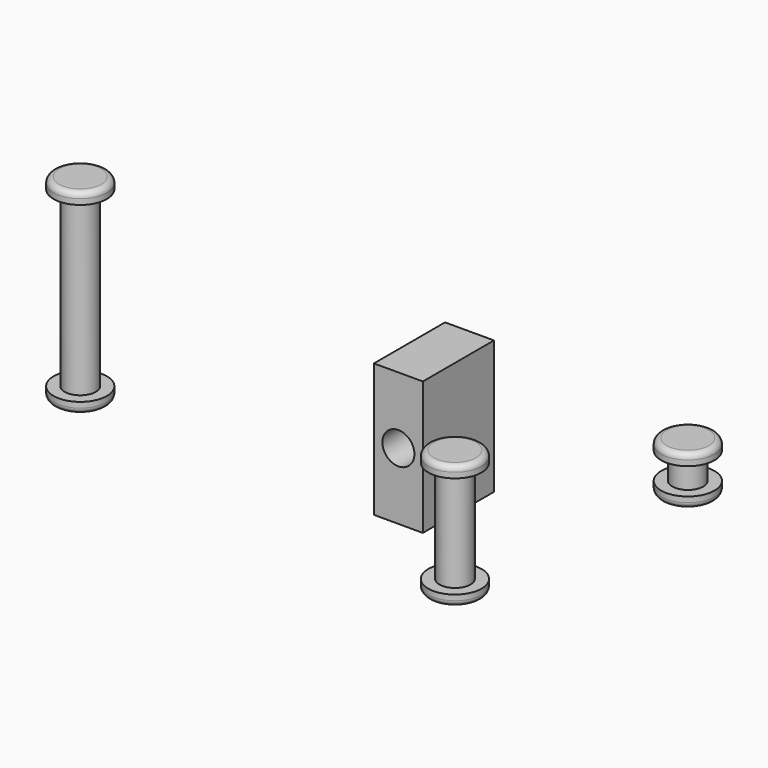
from build123d import *

# Parameters (mm, degrees)
F0_W      = 11.00328
F0_H      = 29.99994
F1_DEPTH  = 19.99996
F2_R      = 3.60045
F3_DEPTH  = 25.4
F4_R      = 3.50012
F5_DEPTH  = 38.99916
F6_R      = 5.99948
F7_DEPTH  = 2.49936
F8_R      = 5.99948
F9_DEPTH  = 2.49936
F10_R     = 1.27
F11_R     = 3.50012
F12_DEPTH = 22.9997
F13_R     = 5.99948
F14_DEPTH = 2.49936
F15_R     = 5.99948
F16_DEPTH = 2.49936
F17_R     = 1.27
F18_R     = 3.50012
F19_DEPTH = 5.99948
F20_R     = 5.99948
F21_DEPTH = 2.49936
F22_R     = 5.99948
F23_DEPTH = 2.49936
F24_R     = 1.27


with BuildPart() as f1:
    # F0 (on Front) → F1 (new body)
    with BuildSketch(Plane.XZ):
        Rectangle(F0_W, F0_H)
    extrude(amount=-F1_DEPTH)

    # F2 (on face) → F3 (cut)
    with BuildSketch(Plane.XZ):
        Circle(F2_R)
    extrude(amount=-F3_DEPTH, mode=Mode.SUBTRACT)


with BuildPart() as f5:
    # F4 (on Top) → F5 (new body)
    with BuildSketch(Plane.XY):
        with Locations((-58.39036, -16.481152)):
            Circle(F4_R)
    extrude(amount=F5_DEPTH)

    # F6 (on face) → F7 (join)
    with BuildSketch(Plane.XY.offset(38.99916)):
        with Locations((-58.39036, -16.481152)):
            Circle(F6_R)
    extrude(amount=F7_DEPTH)

    # F8 (on face) → F9 (join)
    with BuildSketch(Plane(origin=(0, 0, 0), x_dir=(1, 0, 0), z_dir=(0, 0, -1))):
        with Locations((-58.39036, 16.481152)):
            Circle(F8_R)
    extrude(amount=F9_DEPTH)

    # F10
    f10_edges = [f5.edges().sort_by_distance(p)[0] for p in [
        (-64.38984, -16.481152, -2.49936),
        (-64.38984, -16.481152, 41.49852),
    ]]
    fillet(f10_edges, radius=F10_R)


with BuildPart() as f12:
    # F11 (on Top) → F12 (new body)
    with BuildSketch(Plane.XY):
        with Locations((38.805041, -32.601513)):
            Circle(F11_R)
    extrude(amount=F12_DEPTH)

    # F13 (on face) → F14 (join)
    with BuildSketch(Plane.XY.offset(22.9997)):
        with Locations((38.805041, -32.601513)):
            Circle(F13_R)
    extrude(amount=F14_DEPTH)

    # F15 (on face) → F16 (join)
    with BuildSketch(Plane(origin=(0, 0, 0), x_dir=(1, 0, 0), z_dir=(0, 0, -1))):
        with Locations((38.805041, 32.601513)):
            Circle(F15_R)
    extrude(amount=F16_DEPTH)

    # F17
    f17_edges = [f12.edges().sort_by_distance(p)[0] for p in [
        (32.805561, -32.601513, -2.49936),
        (32.805561, -32.601513, 25.49906),
    ]]
    fillet(f17_edges, radius=F17_R)


with BuildPart() as f19:
    # F18 (on Top) → F19 (new body)
    with BuildSketch(Plane.XY):
        with Locations((47.449935, 22.08305)):
            Circle(F18_R)
    extrude(amount=F19_DEPTH)

    # F20 (on face) → F21 (join)
    with BuildSketch(Plane(origin=(0, 0, 0), x_dir=(1, 0, 0), z_dir=(0, 0, -1))):
        with Locations((47.449935, -22.08305)):
            Circle(F20_R)
    extrude(amount=F21_DEPTH)

    # F22 (on face) → F23 (join)
    with BuildSketch(Plane.XY.offset(5.99948)):
        with Locations((47.449935, 22.08305)):
            Circle(F22_R)
    extrude(amount=F23_DEPTH)

    # F24
    f24_edges = [f19.edges().sort_by_distance(p)[0] for p in [
        (41.450455, 22.08305, 8.49884),
        (41.450455, 22.08305, -2.49936),
    ]]
    fillet(f24_edges, radius=F24_R)


solid = Compound([f1.part, f5.part, f12.part, f19.part])
